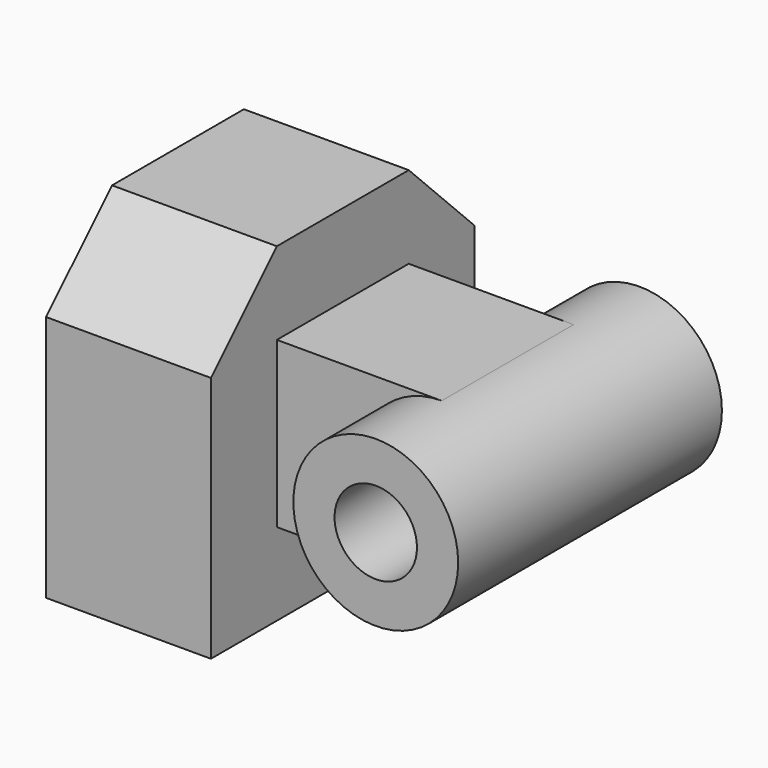
from build123d import *

# Parameters (mm, degrees)
F0_W     = 12.7
F0_H     = 25.4
F1_DEPTH = 25.4
F3_DEPTH = 12.7
F4_W     = 12.7
F4_H     = 12.7
F5_DEPTH = 12.7
F6_R     = 6.35
F6_R_2   = 3.175
F7_DEPTH = 25.4


with BuildPart() as f1:
    # F0 (on Front) → F1 (new body)
    with BuildSketch(Plane.XZ):
        with Locations((6.35, 12.7)):
            Rectangle(F0_W, F0_H)
    extrude(amount=-F1_DEPTH)

    # F2 (on face) → F3 (cut)
    with BuildSketch(Plane.YZ.offset(12.7)):
        Polygon((6.35, 25.4), (0, 25.4), (0, 19.05), align=None)
        Polygon((25.4, 25.4), (19.05, 25.4), (25.4, 19.05), align=None)
    extrude(amount=-F3_DEPTH, mode=Mode.SUBTRACT)

    # F4 (on face) → F5 (join)
    with BuildSketch(Plane.YZ.offset(12.7)):
        with Locations((12.7, 12.7)):
            Rectangle(F4_W, F4_H)
    extrude(amount=F5_DEPTH)

    # F6 (on Front) → F7 (join)
    with BuildSketch(Plane.XZ):
        with Locations((25.4, 12.7)):
            Circle(F6_R)
        with Locations((25.4, 12.7)):
            Circle(F6_R_2, mode=Mode.SUBTRACT)
    extrude(amount=-F7_DEPTH)


solid = f1.part
